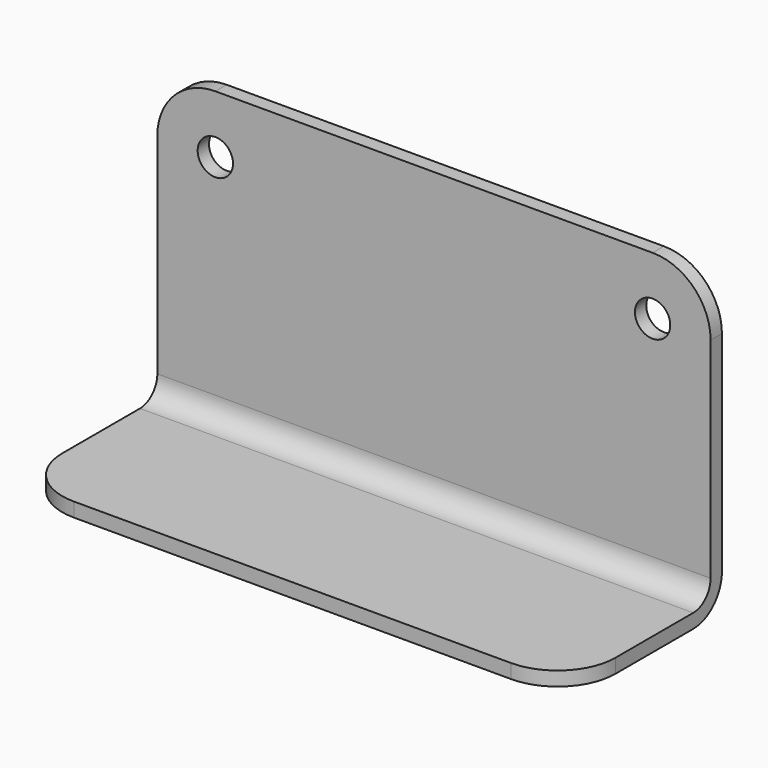
from build123d import *

# Parameters (mm, degrees)
F0_W     = 99.3330795318
F0_H     = 54.4778928161
F1_DEPTH = 34.29
F2_R     = 10.414
F3_R     = 6.4262
F4_T     = -2.54
F6_D     = 6.35


with BuildPart() as f1:
    # F0 (on Front) → F1 (new body)
    with BuildSketch(Plane.XZ):
        with Locations((22.2479021177, 0.9583178908)):
            Rectangle(F0_W, F0_H)
    extrude(amount=F1_DEPTH)

    # F2
    f2_edges = [f1.edges().sort_by_distance(p)[0] for p in [
        (71.914442, -17.145, 28.197264),
        (-27.418638, -17.145, 28.197264),
        (71.914442, -34.29, 0.958318),
        (-27.418638, -34.29, 0.958318),
    ]]
    fillet(f2_edges, radius=F2_R)

    # F3
    f3_edges = [f1.edges().sort_by_distance(p)[0] for p in [
        (22.247902, 0, -26.280629),
    ]]
    fillet(f3_edges, radius=F3_R)

    # F4
    f4_openings = [f1.faces().sort_by_distance(p)[0] for p in [
        (22.247902, -34.29, 0.958318),
        (22.247902, -17.145, 28.197264),
        (68.864252, -17.145, 25.147074),
        (68.864252, -31.23981, 0.958318),
        (71.914442, -12.027221, -4.073711),
        (-24.368448, -31.23981, 0.958318),
        (-24.368448, -17.145, 25.147074),
        (-27.418638, -12.027221, -4.073711),
    ]]
    offset(amount=F4_T, openings=f4_openings)

    # F6 (through all)
    with Locations(Plane.XZ.offset(2.54)):
        with Locations((-17.0046376482, 17.7832642988), (61.5004418836, 17.7832642988)):
            Hole(F6_D / 2)


solid = f1.part
